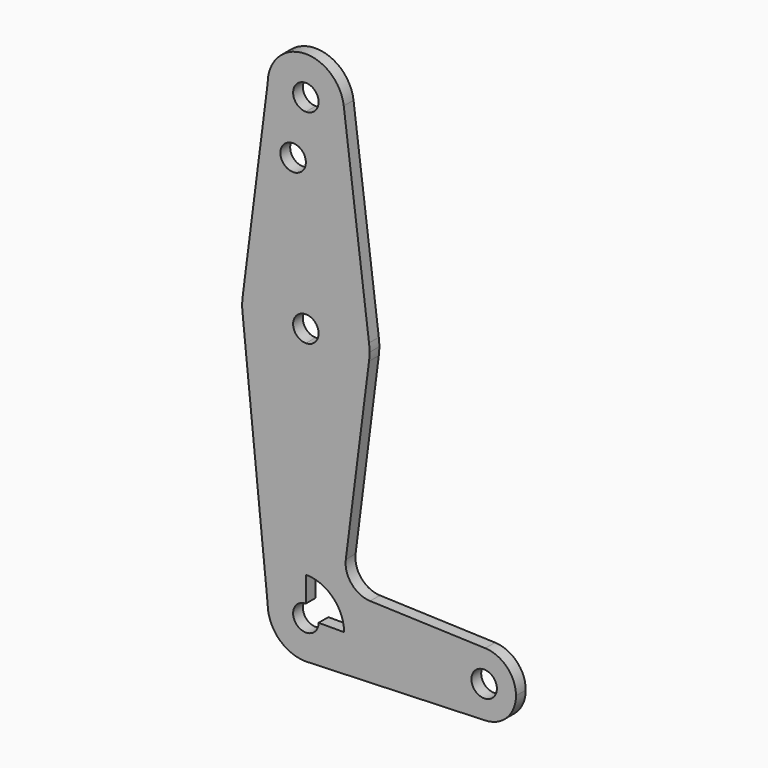
from build123d import *

# Parameters (mm, degrees)
F0_R     = 3.175
F1_DEPTH = 3.048


with BuildPart() as f1:
    # F0 (on Front) → F1 (new body)
    with BuildSketch(Plane.XZ):
        with BuildLine():
            ThreePointArc((3.175, 114.3), (-2.245064, 116.545064), (0, 111.125))
            ThreePointArc((0, 111.125), (2.245064, 112.054936), (3.175, 114.3))
        make_face()
        with BuildLine():
            ThreePointArc((0, 104.775), (6.735192, 107.564808), (9.525, 114.3))
            ThreePointArc((9.525, 114.3), (9.506305, 114.896482), (9.450293, 115.490622))
            ThreePointArc((9.450293, 115.490622), (-0.596482, 123.806305), (-9.525, 114.3))
            ThreePointArc((-9.525, 114.3), (-6.735192, 107.564808), (0, 104.775))
        make_face()
        with BuildLine():
            ThreePointArc((3.175, 114.3), (2.245064, 112.054936), (0, 111.125))
            ThreePointArc((0, 111.125), (-2.245064, 116.545064), (3.175, 114.3))
        make_face(mode=Mode.SUBTRACT)
        with BuildLine():
            ThreePointArc((9.450293, 115.490622), (9.506305, 114.896482), (9.525, 114.3))
            ThreePointArc((9.525, 114.3), (6.735192, 107.564808), (0, 104.775))
            Line((0, 104.775), (0, 100.0252))
            Line((0, 100.0252), (0, 79.375))
            ThreePointArc((0, 79.375), (10.491283, 75.414219), (15.747457, 65.508289))
            Line((15.747457, 65.508289), (9.450293, 115.490622))
        make_face()
        with BuildLine():
            Line((0, 100.0252), (0, 104.775))
            ThreePointArc((0, 104.775), (-6.735192, 107.564808), (-9.525, 114.3))
            Line((-9.525, 114.3), (-15.747457, 65.508289))
            ThreePointArc((-15.747457, 65.508289), (-10.491283, 75.414219), (0, 79.375))
            Line((0, 79.375), (0, 100.0252))
        make_face()
        with Locations((-3.175, 100.0252)):
            Circle(F0_R, mode=Mode.SUBTRACT)
        with BuildLine():
            ThreePointArc((15.875, 63.5), (15.843082, 64.506168), (15.747457, 65.508289))
            ThreePointArc((15.747457, 65.508289), (10.491283, 75.414219), (0, 79.375))
            Line((0, 79.375), (0, 66.675))
            ThreePointArc((0, 66.675), (2.245064, 65.745064), (3.175, 63.5))
            ThreePointArc((3.175, 63.5), (2.245064, 61.254936), (0, 60.325))
            Line((0, 60.325), (0, 47.625))
            ThreePointArc((0, 47.625), (10.491283, 51.585781), (15.747457, 61.491711))
            ThreePointArc((15.747457, 61.491711), (15.843082, 62.493832), (15.875, 63.5))
        make_face()
        with BuildLine():
            ThreePointArc((0, 79.375), (-10.491283, 75.414219), (-15.747457, 65.508289))
            ThreePointArc((-15.747457, 65.508289), (-15.875, 63.5), (-15.747457, 61.491711))
            ThreePointArc((-15.747457, 61.491711), (-10.491283, 51.585781), (0, 47.625))
            Line((0, 47.625), (0, 60.325))
            ThreePointArc((0, 60.325), (-3.175, 63.5), (0, 66.675))
            Line((0, 66.675), (0, 79.375))
        make_face()
        with BuildLine():
            ThreePointArc((0, 47.625), (-10.491283, 51.585781), (-15.747457, 61.491711))
            Line((-15.747457, 61.491711), (-9.525, 0))
            ThreePointArc((-9.525, 0), (-6.735192, 6.735192), (0, 9.525))
            Line((0, 9.525), (0, 47.625))
        make_face()
        with BuildLine():
            Line((9.959056, 16.103534), (15.747457, 61.491711))
            ThreePointArc((15.747457, 61.491711), (10.491283, 51.585781), (0, 47.625))
            Line((0, 47.625), (0, 9.525))
            ThreePointArc((0, 9.525), (6.735192, 6.735192), (9.525, 0))
            Line((9.525, 0), (36.5125, 0))
            ThreePointArc((36.5125, 0), (38.93809, 5.711633), (44.732405, 7.932475))
            Line((44.732405, 7.932475), (16.032115, 8.954238))
            ThreePointArc((16.032115, 8.954238), (11.418441, 11.189161), (9.959056, 16.103534))
        make_face()
        with BuildLine():
            ThreePointArc((0, 9.525), (-6.735192, 6.735192), (-9.525, 0))
            ThreePointArc((-9.525, 0), (-6.735192, -6.735192), (0, -9.525))
            Line((0, -9.525), (0.677344, -9.500886))
            ThreePointArc((0.677344, -9.500886), (6.970557, -6.491299), (9.525, 0))
            Line((9.525, 0), (3.175, 0))
            ThreePointArc((3.175, 0), (-2.245064, -2.245064), (0, 3.175))
            Line((0, 3.175), (0, 9.525))
        make_face()
        with BuildLine():
            Line((0.677344, -9.500886), (0, -9.525))
            ThreePointArc((0, -9.525), (0.338886, -9.51897), (0.677344, -9.500886))
        make_face()
        with BuildLine():
            Line((36.5125, 0), (9.525, 0))
            ThreePointArc((9.525, 0), (6.970557, -6.491299), (0.677344, -9.500886))
            Line((0.677344, -9.500886), (44.732405, -7.932475))
            ThreePointArc((44.732405, -7.932475), (38.93809, -5.711633), (36.5125, 0))
        make_face()
        with BuildLine():
            ThreePointArc((47.625, 0), (44.45, 3.175), (41.275, 0))
            ThreePointArc((41.275, 0), (44.45, -3.175), (47.625, 0))
        make_face()
        with BuildLine():
            ThreePointArc((52.3875, 0), (50.161633, 5.51191), (44.732405, 7.932475))
            ThreePointArc((44.732405, 7.932475), (38.93809, 5.711633), (36.5125, 0))
            ThreePointArc((36.5125, 0), (38.93809, -5.711633), (44.732405, -7.932475))
            ThreePointArc((44.732405, -7.932475), (50.161633, -5.51191), (52.3875, 0))
        make_face()
        with BuildLine():
            ThreePointArc((47.625, 0), (44.45, -3.175), (41.275, 0))
            ThreePointArc((41.275, 0), (44.45, 3.175), (47.625, 0))
        make_face(mode=Mode.SUBTRACT)
    extrude(amount=F1_DEPTH)


solid = f1.part
